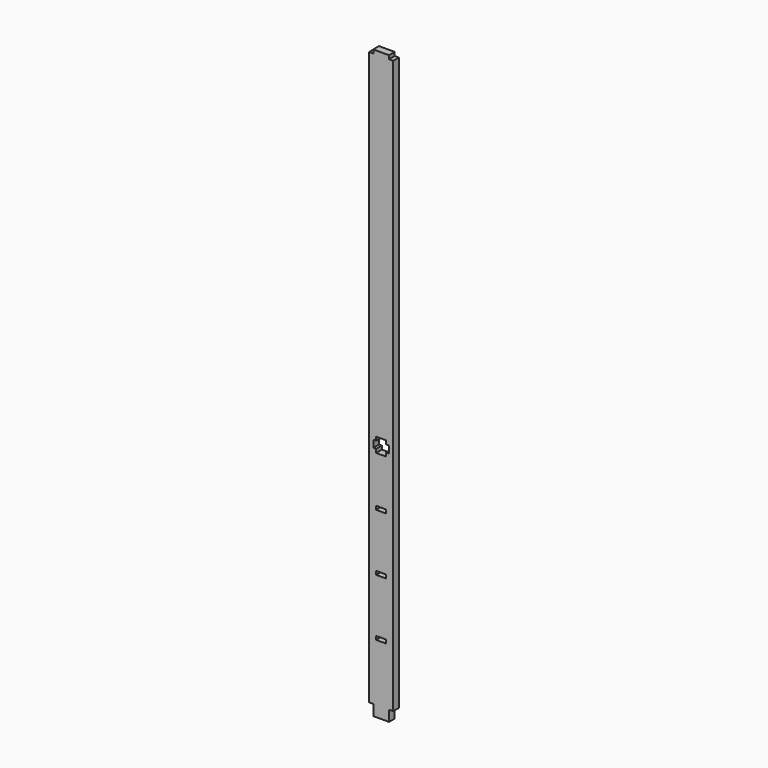
from build123d import *

# Parameters (mm, degrees)
F1_DEPTH      = 3.175
F2_W          = 13.97
F2_H          = 3.175
F3_DEPTH      = 3.175
F3_DEPTH_BACK = 3.175
F4_W          = 13.97
F4_H          = 6.35
F5_DEPTH      = 6.35
F6_W          = 8.89
F6_H          = 3.175
F7_DEPTH      = 6.35
F8_W          = 8.89
F8_H          = 3.175
F9_DEPTH      = 6.35


with BuildPart() as f1:
    # F0 (on Front) → F1 (new body, symmetric)
    with BuildSketch(Plane.XZ):
        Polygon((-10.668, 508), (-10.668, 0), (-6.985, 0), (-6.985, -9.525), (6.985, -9.525), (6.985, 0), (10.668, 0), (10.668, 508), align=None)
    extrude(amount=F1_DEPTH, both=True)

    # F2 (on Front) → F3 (join, two sides)
    with BuildSketch(Plane.XZ) as f3_sk:
        with Locations((0, 509.5875)):
            Rectangle(F2_W, F2_H)
    extrude(amount=F3_DEPTH)
    extrude(f3_sk.sketch, amount=-F3_DEPTH_BACK)

    # F4 (on face) → F5 (cut, through all)
    with BuildSketch(Plane.XZ.offset(3.175)):
        with Locations((0, 203.2)):
            Rectangle(F4_W, F4_H)
    extrude(amount=-F5_DEPTH, mode=Mode.SUBTRACT)

    # F6 (on face) → F7 (cut, through all)
    with BuildSketch(Plane.XZ.offset(3.175)):
        with Locations((0, 207.9625)):
            Rectangle(F6_W, F6_H)
        with Locations((0, 198.4375)):
            Rectangle(F6_W, F6_H)
    extrude(amount=-F7_DEPTH, mode=Mode.SUBTRACT)

    # F8 (on face) → F9 (cut, through all)
    with BuildSketch(Plane.XZ.offset(3.175)):
        with Locations((0, 52.3875)):
            Rectangle(F8_W, F8_H)
        with Locations((0, 103.1875)):
            Rectangle(F8_W, F8_H)
        with Locations((0, 153.9875)):
            Rectangle(F8_W, F8_H)
    extrude(amount=-F9_DEPTH, mode=Mode.SUBTRACT)


solid = f1.part
